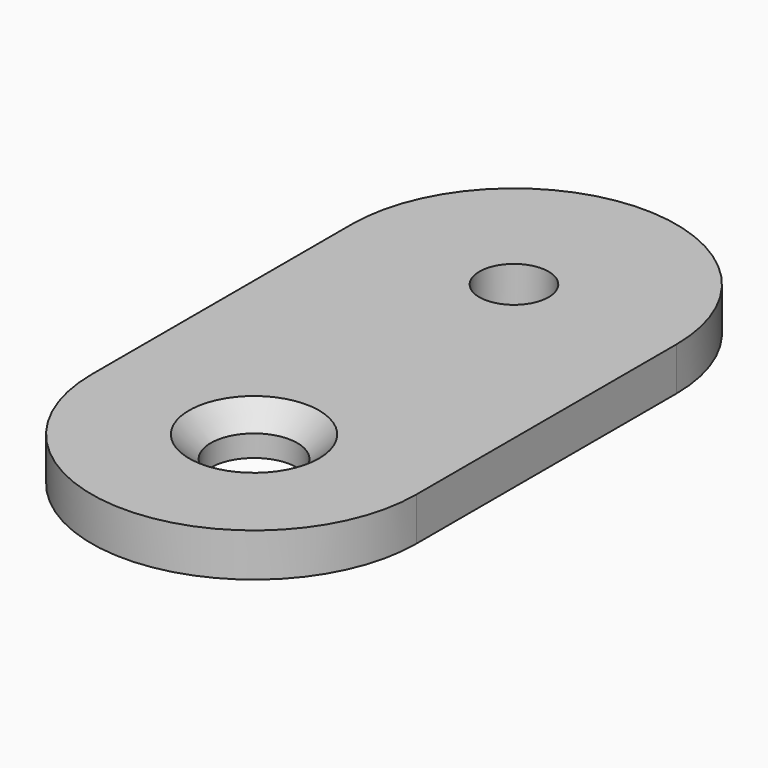
from build123d import *

# Parameters (mm, degrees)
SKETCH_R     = 1.6
SKETCH_R_2   = 2
PAD_DEPTH    = 2
CHAMFER_SIZE = 1


with BuildPart() as part:
    # Sketch → Pad (new body)
    with BuildSketch(Plane.XY):
        with BuildLine():
            ThreePointArc((7.5, 15), (0, 22.5), (-7.5, 15))
            Line((-7.5, 15), (-7.5, 0))
            ThreePointArc((-7.5, 0), (0, -7.5), (7.5, 0))
            Line((7.5, 15), (7.5, 0))
        make_face()
        with Locations((0, 15)):
            Circle(SKETCH_R, mode=Mode.SUBTRACT)
        Circle(SKETCH_R_2, mode=Mode.SUBTRACT)
    extrude(amount=PAD_DEPTH)

    # Chamfer
    chamfer_edges = [part.edges().sort_by_distance(p)[0] for p in [
        (-2, 0, 2),
    ]]
    chamfer(chamfer_edges, length=CHAMFER_SIZE)


solid = part.part
